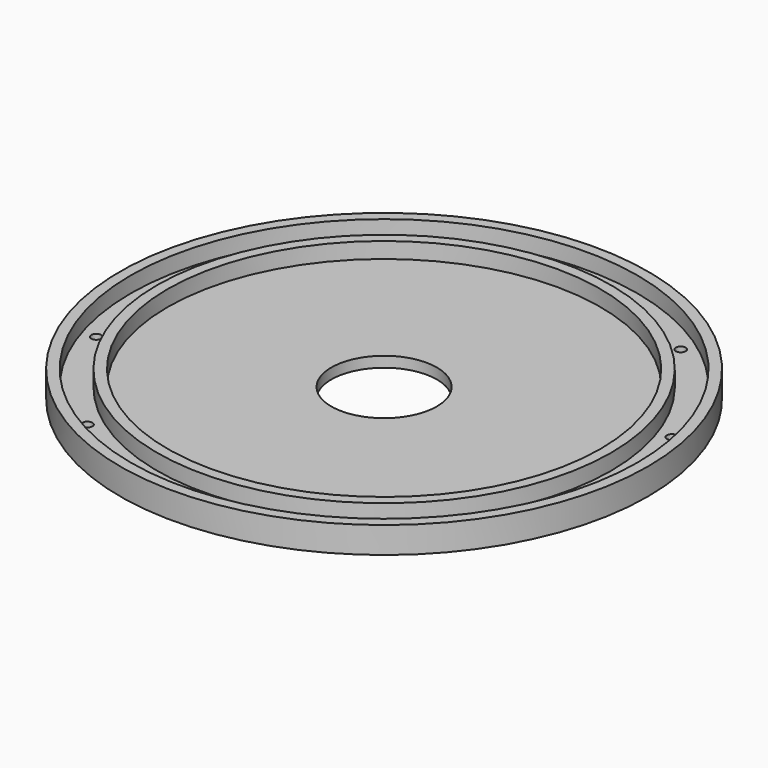
from build123d import *

# Parameters (mm, degrees)
F0_R     = 50
F1_DEPTH = 2
F2_R     = 50
F2_R_2   = 48
F2_R_3   = 43
F2_R_4   = 41
F3_DEPTH = 3
F4_R     = 0.95
F5_DEPTH = 2.001
F6_R     = 10
F7_DEPTH = 2.001


with BuildPart() as f1:
    # F0 (on Top) → F1 (new body)
    with BuildSketch(Plane.XY):
        Circle(F0_R)
    extrude(amount=F1_DEPTH)

    # F2 (on face) → F3 (join)
    with BuildSketch(Plane.XY.offset(2)):
        Circle(F2_R)
        Circle(F2_R_2, mode=Mode.SUBTRACT)
        Circle(F2_R_3)
        Circle(F2_R_4, mode=Mode.SUBTRACT)
    extrude(amount=F3_DEPTH)

    # F4 (on face) → F5 (cut, through all)
    with BuildSketch(Plane.XY.offset(2)):
        with Locations((0, 45.5)):
            Circle(F4_R)
        with Locations((-26.7442289793, 36.8102732441)):
            Circle(F4_R)
        with Locations((-43.2730714914, 14.0602732441)):
            Circle(F4_R)
        with Locations((-43.2730714914, -14.0602732441)):
            Circle(F4_R)
        with Locations((-26.7442289793, -36.8102732441)):
            Circle(F4_R)
        with Locations((0, -45.5)):
            Circle(F4_R)
        with Locations((26.7442289793, -36.8102732441)):
            Circle(F4_R)
        with Locations((43.2730714914, -14.0602732441)):
            Circle(F4_R)
        with Locations((43.2730714914, 14.0602732441)):
            Circle(F4_R)
        with Locations((26.7442289793, 36.8102732441)):
            Circle(F4_R)
    extrude(amount=-F5_DEPTH, mode=Mode.SUBTRACT)

    # F6 (on face) → F7 (cut, through all)
    with BuildSketch(Plane.XY.offset(2)):
        Circle(F6_R)
    extrude(amount=-F7_DEPTH, mode=Mode.SUBTRACT)


solid = f1.part
